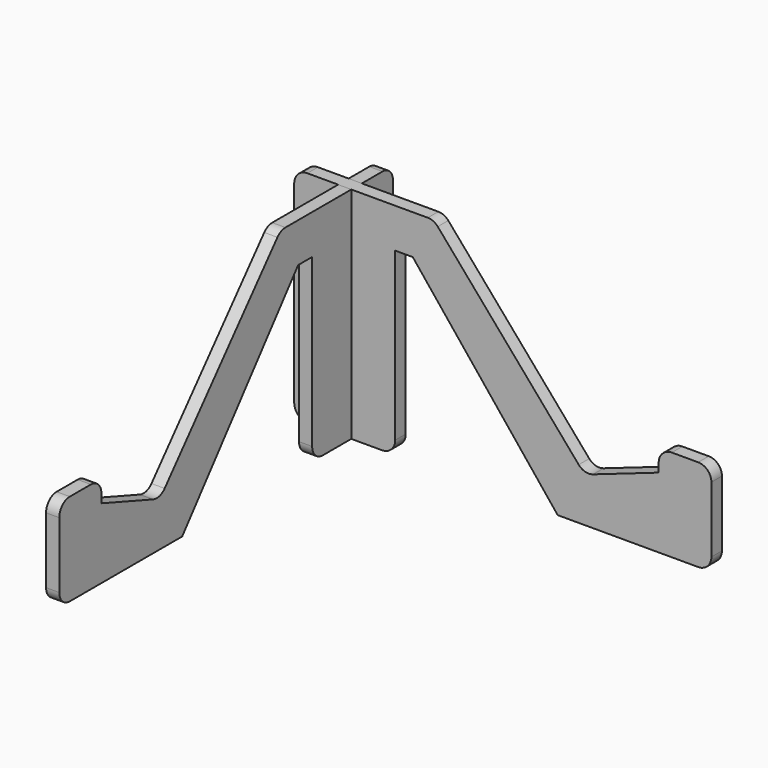
from build123d import *

# Parameters (mm, degrees)
F2_DEPTH = 3
F3_W     = 3
F3_H     = 25
F4_DEPTH = 3


with BuildPart() as f2:
    # F1 (on Right) → F2 (new body)
    with BuildSketch(Plane.YZ):
        with BuildLine():
            ThreePointArc((72, 3), (72.8786796564, 0.8786796564), (75, 0))
            Line((75, 0), (92, 0))
            ThreePointArc((92, 0), (94.1213203436, 0.8786796564), (95, 3))
            Line((95, 3), (95, 47))
            ThreePointArc((95, 47), (94.1213203436, 49.1213203436), (92, 50))
            Line((92, 50), (86.1294953823, 50))
            Line((86.1294953823, 50), (86.1294953823, 25))
            Line((86.1294953823, 25), (83.1294953823, 25))
            Line((83.1294953823, 25), (83.1294953823, 50))
            Line((83.1294953823, 50), (64.3759964546, 50))
            ThreePointArc((64.3759964546, 50), (63.1252838778, 49.7268513069), (62.1023249714, 48.9571453667))
            Line((62.1023249714, 48.9571453667), (30.003192595, 11.6666695733))
            ThreePointArc((30.003192595, 11.6666695733), (28.5013733556, 10.7248075041), (26.7300434508, 10.7952031948))
            Line((26.7300434508, 10.7952031948), (12, 16))
            Line((12, 16), (12, 18))
            ThreePointArc((12, 18), (11.1213203436, 20.1213203436), (9, 21))
            Line((9, 21), (3, 21))
            ThreePointArc((3, 21), (0.8786796564, 20.1213203436), (0, 18))
            Line((0, 18), (0, 3))
            ThreePointArc((0, 3), (0.8786796564, 0.8786796564), (3, 0))
            Line((3, 0), (35, 0))
            Line((35, 0), (68, 41))
            Line((68, 41), (72, 41))
            Line((72, 41), (72, 3))
        make_face()
    extrude(amount=F2_DEPTH)


with BuildPart() as f4:
    # F3 (on face) → F4 (new body)
    with BuildSketch(Plane(origin=(0, 83.1294953823, 0), x_dir=(-1, 0, 0), z_dir=(0, 1, 0))):
        with BuildLine():
            ThreePointArc((-13, 3), (-12.1213203436, 0.8786796564), (-10, 0))
            Line((-10, 0), (7, 0))
            ThreePointArc((7, 0), (9.1213203436, 0.8786796564), (10, 3))
            Line((10, 3), (10, 47))
            ThreePointArc((10, 47), (9.1213203436, 49.1213203436), (7, 50))
            Line((7, 50), (1.3374346048, 50))
            Line((1.3374346048, 50), (0, 50))
            Line((0, 50), (0, 25))
            Line((0, 25), (-3, 25))
            Line((-3, 25), (-3, 50))
            Line((-3, 50), (-20.4160643229, 50))
            ThreePointArc((-20.4160643229, 50), (-21.6667768998, 49.7268513069), (-22.6897358061, 48.9571453667))
            Line((-22.6897358061, 48.9571453667), (-54.7888681825, 11.6666695733))
            ThreePointArc((-54.7888681825, 11.6666695733), (-56.2843439163, 10.7265038805), (-58.0496252352, 10.7908549899))
            Line((-58.0496252352, 10.7908549899), (-73, 16))
            Line((-73, 16), (-73, 18))
            ThreePointArc((-73, 18), (-73.8786796564, 20.1213203436), (-76, 21))
            Line((-76, 21), (-82, 21))
            ThreePointArc((-82, 21), (-84.1213203436, 20.1213203436), (-85, 18))
            Line((-85, 18), (-85, 3))
            ThreePointArc((-85, 3), (-84.1213203436, 0.8786796564), (-82, 0))
            Line((-82, 0), (-50, 0))
            Line((-50, 0), (-17, 41))
            Line((-17, 41), (-13, 41))
            Line((-13, 41), (-13, 3))
        make_face()
        with Locations((-1.5, 37.5)):
            Rectangle(F3_W, F3_H)
    extrude(amount=F4_DEPTH)

    # F5: cut F2
    add(f2.part, mode=Mode.SUBTRACT)


solid = Compound([f2.part, f4.part])
